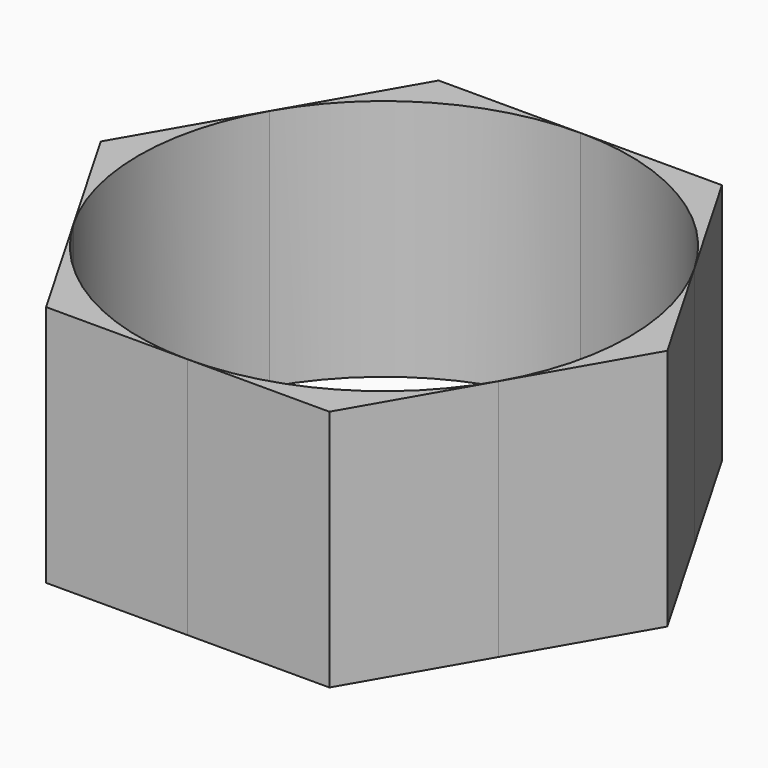
from build123d import *

# Parameters (mm, degrees)
F1_DEPTH = 25


with BuildPart() as f1:
    # F0 (on Top) → F1 (new body)
    with BuildSketch(Plane.XY):
        with BuildLine():
            Line((0, -25.262376), (14.58524, -25.262376))
            Line((14.58524, -25.262376), (21.877859, -12.631189))
            ThreePointArc((21.877859, -12.631189), (12.631188, -21.87786), (0, -25.262376))
        make_face()
        with BuildLine():
            Line((-14.58524, -25.262376), (0, -25.262376))
            ThreePointArc((0, -25.262376), (-12.631188, -21.877859), (-21.87786, -12.631188))
            Line((-21.87786, -12.631188), (-14.58524, -25.262376))
        make_face()
        with BuildLine():
            Line((-29.17048, 0), (-21.87786, -12.631188))
            ThreePointArc((-21.87786, -12.631188), (-25.262376, 0), (-21.877859, 12.631188))
            Line((-21.877859, 12.631188), (-29.17048, 0))
        make_face()
        with BuildLine():
            Line((-14.58524, 25.262376), (-21.877859, 12.631188))
            ThreePointArc((-21.877859, 12.631188), (-12.631188, 21.87786), (0, 25.262376))
            Line((0, 25.262376), (-14.58524, 25.262376))
        make_face()
        with BuildLine():
            ThreePointArc((25.262376, 0), (24.401582, -6.538384), (21.877859, -12.631189))
            Line((21.877859, -12.631189), (29.17048, 0))
            Line((29.17048, 0), (21.87786, 12.631188))
            ThreePointArc((21.87786, 12.631188), (24.401582, 6.538384), (25.262376, 0))
        make_face()
        with BuildLine():
            ThreePointArc((0, 25.262376), (12.631188, 21.877859), (21.87786, 12.631188))
            Line((21.87786, 12.631188), (14.58524, 25.262376))
            Line((14.58524, 25.262376), (0, 25.262376))
        make_face()
    extrude(amount=F1_DEPTH)


solid = f1.part
